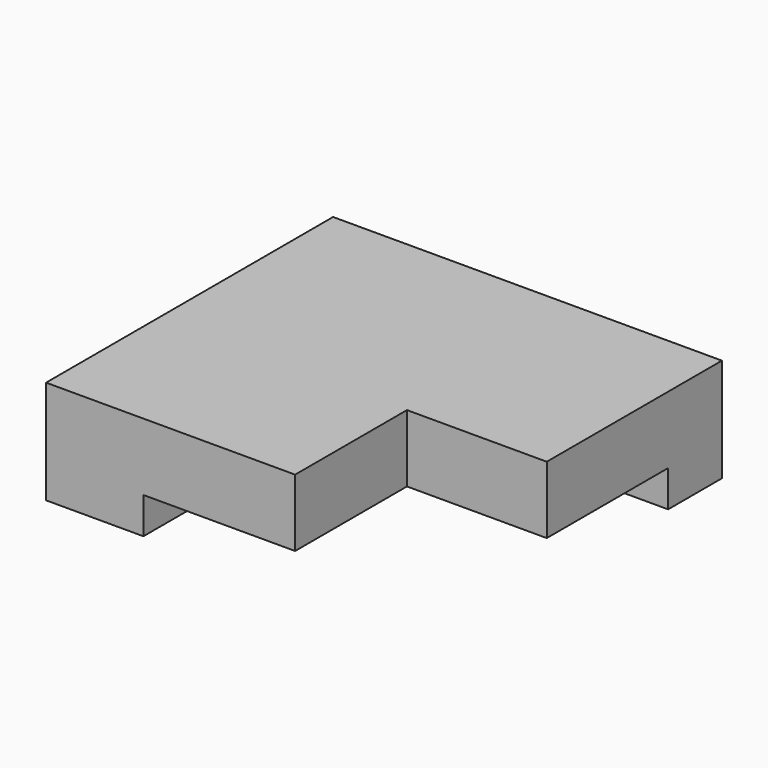
from build123d import *

# Parameters (mm, degrees)
F1_DEPTH  = 20.55
F2_W      = 215.725
F2_H      = 215.725
F3_DEPTH  = 38
F5_DEPTH  = 58.55
F6_W      = 76
F6_H      = 76
F7_DEPTH  = 38.001
F9_DEPTH  = 3
F11_DEPTH = 3
F12_W     = 221.725
F12_H     = 19
F13_DEPTH = 58.551
F14_W     = 2
F14_H     = 202.725
F15_DEPTH = 58.551


with BuildPart() as f1:
    # F0 (on Top) → F1 (new body)
    with BuildSketch(Plane.XY):
        Polygon((-53.8625, 53.8625), (107.8625, 53.8625), (107.8625, 107.8625), (-107.8625, 107.8625), (-107.8625, -107.8625), (-53.8625, -107.8625), align=None)
    extrude(amount=F1_DEPTH)

    # F2 (on face) → F3 (join)
    with BuildSketch(Plane.XY.offset(20.55)):
        Rectangle(F2_W, F2_H)
    extrude(amount=F3_DEPTH)

    # F4 (on face) → F5 (join, through all)
    with BuildSketch(Plane.XY.offset(58.55)):
        Polygon((-110.8625, -107.8625), (-107.8625, -107.8625), (-107.8625, 107.8625), (107.8625, 107.8625), (107.8625, 110.8625), (-110.8625, 110.8625), align=None)
    extrude(amount=-F5_DEPTH)

    # F6 (on face) → F7 (cut, through all)
    with BuildSketch(Plane(origin=(0, 0, 20.55), x_dir=(1, 0, 0), z_dir=(0, 0, -1))):
        with Locations((69.8625, 69.8625)):
            Rectangle(F6_W, F6_H)
    extrude(amount=-F7_DEPTH, mode=Mode.SUBTRACT)

    # F8 (on face) → F9 (join)
    with BuildSketch(Plane.YZ.offset(107.8625)):
        Polygon((110.8625, 58.55), (-31.8625, 58.55), (-31.8625, 20.55), (53.8625, 20.55), (53.8625, 0), (110.8625, 0), align=None)
    extrude(amount=F9_DEPTH)

    # F10 (on face) → F11 (join)
    with BuildSketch(Plane.XZ.offset(107.8625)):
        Polygon((31.8625, 58.55), (-110.8625, 58.55), (-110.8625, 0), (-53.8625, 0), (-53.8625, 20.55), (31.8625, 20.55), align=None)
    extrude(amount=F11_DEPTH)

    # F12 (on face) → F13 (cut, through all)
    with BuildSketch(Plane(origin=(0, 0, 0), x_dir=(1, 0, 0), z_dir=(0, 0, -1))):
        with Locations((0, -101.3625)):
            Rectangle(F12_W, F12_H)
    extrude(amount=-F13_DEPTH, mode=Mode.SUBTRACT)

    # F14 (on face) → F15 (cut, through all)
    with BuildSketch(Plane(origin=(0, 0, 0), x_dir=(1, 0, 0), z_dir=(0, 0, -1))):
        with Locations((-109.8625, 9.5)):
            Rectangle(F14_W, F14_H)
    extrude(amount=-F15_DEPTH, mode=Mode.SUBTRACT)


solid = f1.part
